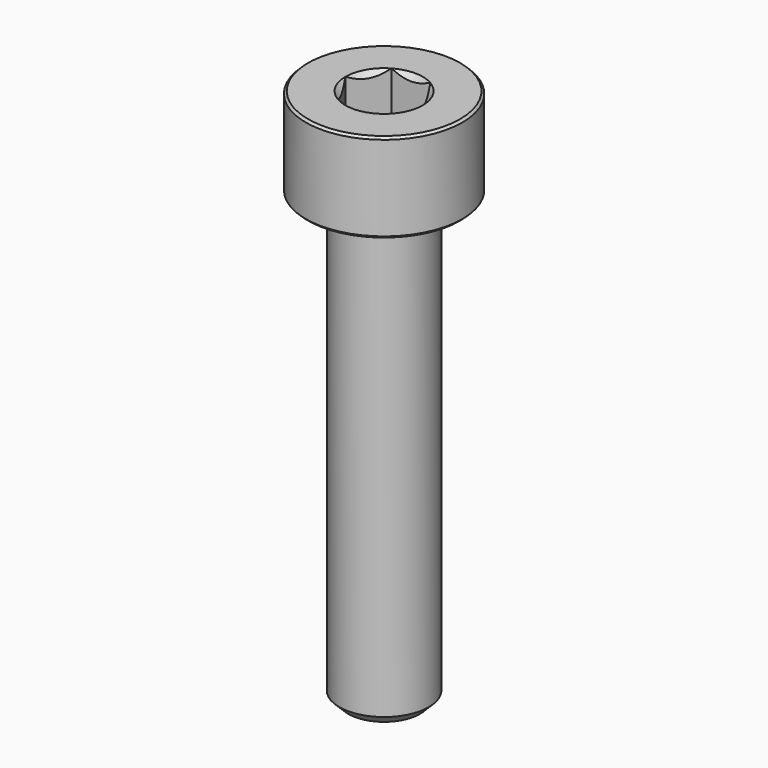
from build123d import *

# Parameters (mm, degrees)
SKETCH001_R     = 3.75
POCKET_DEPTH    = 9.70192
CHAMFER_SIZE    = 0.4
CHAMFER001_SIZE = 0.1
CHAMFER002_SIZE = 0.4


with BuildPart() as pocket:
    # Sketch003 → Revolution001 (revolve)
    with BuildSketch(Plane.XZ):
        Polygon((0, 0.29908), (2.75, 1.3), (2.75, 10), (0, 10), align=None)
    revolve(axis=Axis((0, 0, 0), (0, 0, 1)))

    # Sketch001 → Pocket (cut, through all)
    with BuildSketch(Plane(origin=(0, 0, 10), x_dir=(-1, 0, 0), z_dir=(0, 0, 1))):
        Circle(SKETCH001_R)
        Polygon((-0.866025, 1.5), (0.866025, 1.5), (1.732051, 0), (0.866025, -1.5), (-0.866025, -1.5), (-1.732051, 0), align=None, mode=Mode.SUBTRACT)
    extrude(amount=-POCKET_DEPTH, mode=Mode.SUBTRACT)


with BuildPart() as chamfer002:
    # Sketch → Revolution (revolve)
    with BuildSketch(Plane.XZ):
        Polygon((1.73, 4), (3.5, 4), (3.5, 0), (2, 0), (2, -20), (0, -20), (0, 2.269998), align=None)
    revolve(axis=Axis((0, 0, 0), (0, 0, 1)))

    # Cut: cut Pocket
    add(pocket.part, mode=Mode.SUBTRACT)

    # Chamfer
    chamfer_edges = [chamfer002.edges().sort_by_distance(p)[0] for p in [
        (1.299038, 0.75, 0.845037),
    ]]
    chamfer(chamfer_edges, length=CHAMFER_SIZE)

    # Chamfer001
    chamfer001_edges = [chamfer002.edges().sort_by_distance(p)[0] for p in [
        (-3.5, 0, 4),
        (-3.5, 0, 0),
    ]]
    chamfer(chamfer001_edges, length=CHAMFER001_SIZE)

    # Chamfer002
    chamfer002_edges = [chamfer002.edges().sort_by_distance(p)[0] for p in [
        (-2, 0, -20),
    ]]
    chamfer(chamfer002_edges, length=CHAMFER002_SIZE)


solid = chamfer002.part
